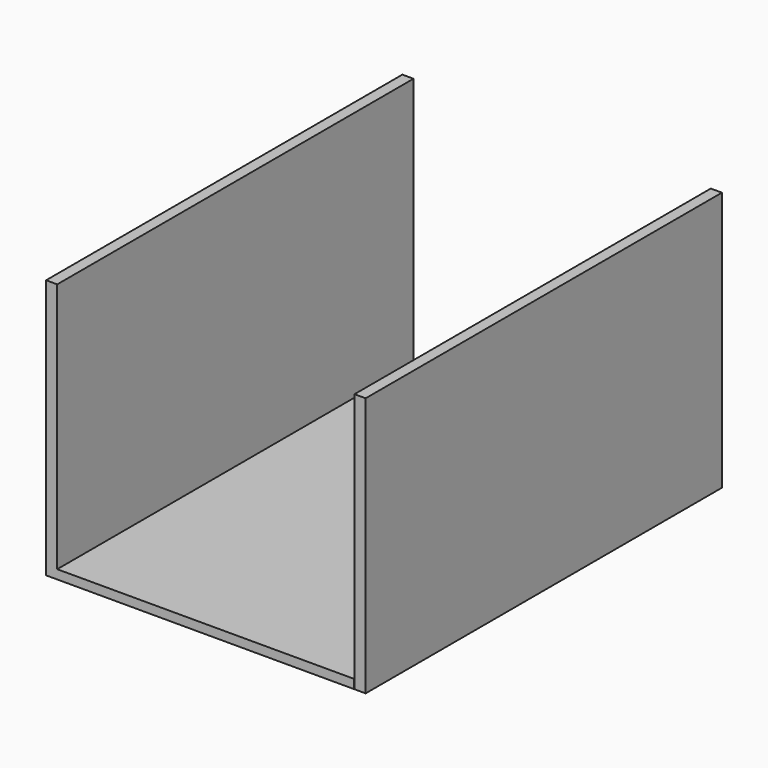
from build123d import *

# Parameters (mm, degrees)
F0_W     = 3.81
F0_H     = 88.9
F0_W_2   = 101.6
F0_H_2   = 3.091447
F1_DEPTH = 76.2


with BuildPart() as f1:
    # F0 (on Front) → F1 (new body, symmetric)
    with BuildSketch(Plane.XZ):
        Polygon((-50.8, 44.45), (-54.61, 44.45), (-54.61, -44.45), (-50.8, -44.45), (-50.8, -41.358553), align=None)
        with Locations((52.833073, 0)):
            Rectangle(F0_W, F0_H)
        with Locations((0, -42.904276)):
            Rectangle(F0_W_2, F0_H_2)
    extrude(amount=F1_DEPTH, both=True)


solid = f1.part
